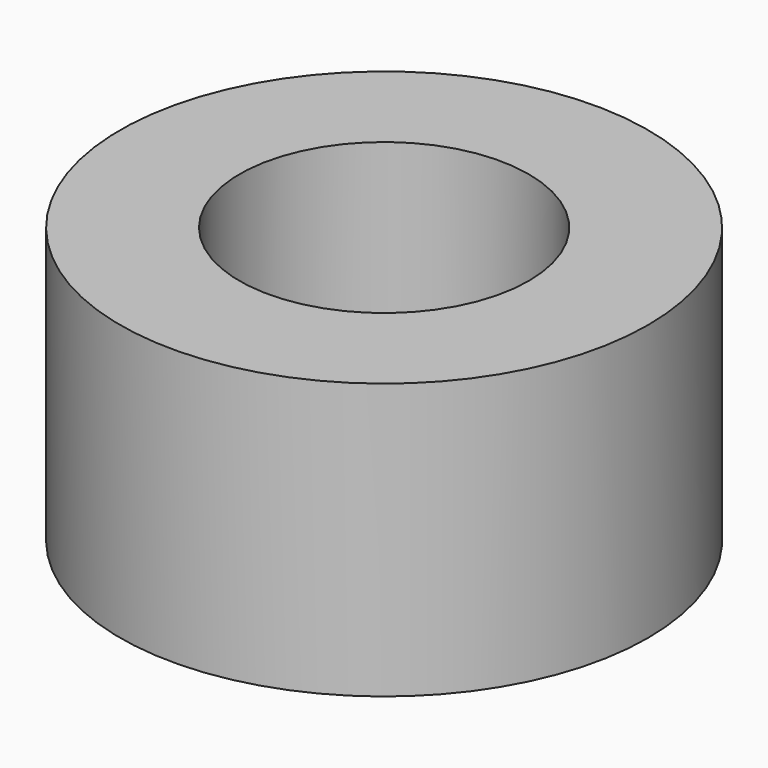
from build123d import *

# Parameters (mm, degrees)
SKETCH_R   = 5.75
SKETCH_R_2 = 3.15
PAD_DEPTH  = 6


with BuildPart() as part:
    # Sketch → Pad (new body)
    with BuildSketch(Plane.XY):
        Circle(SKETCH_R)
        Circle(SKETCH_R_2, mode=Mode.SUBTRACT)
    extrude(amount=PAD_DEPTH)


solid = part.part
